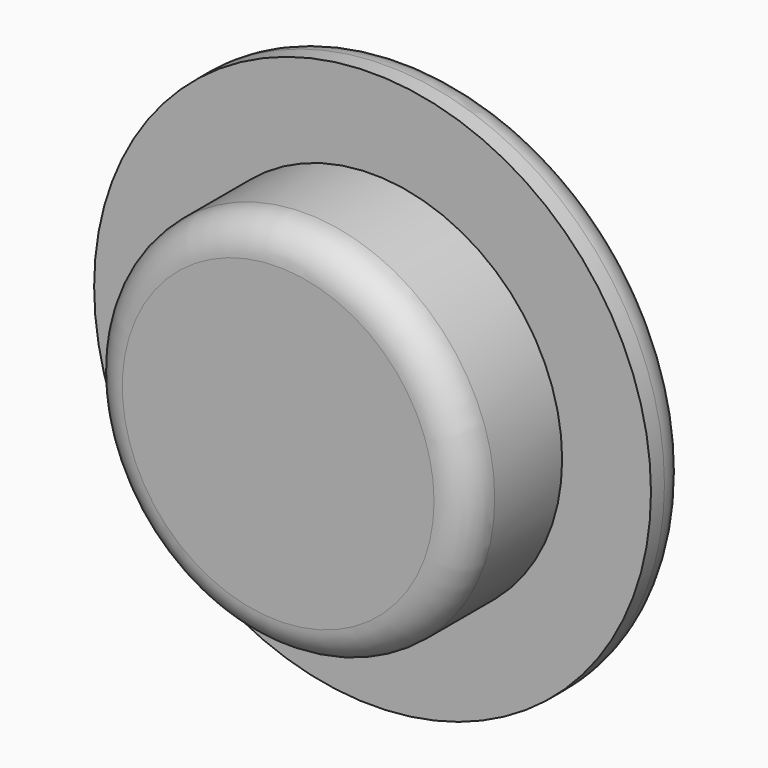
from build123d import *

# Parameters (mm, degrees)
F0_R     = 16.522283
F0_R_2   = 11.25
F1_DEPTH = 3
F2_DEPTH = 10
F3_R     = 2
F4_R     = 2


with BuildPart() as f1:
    # F0 (on Front) → F1 (new body)
    with BuildSketch(Plane.XZ):
        Circle(F0_R)
        Circle(F0_R_2, mode=Mode.SUBTRACT)
    extrude(amount=F1_DEPTH)

    # F0 (on Front) → F2 (join)
    with BuildSketch(Plane.XZ):
        Circle(F0_R_2)
    extrude(amount=F2_DEPTH)

    # F3
    f3_edges = [f1.edges().sort_by_distance(p)[0] for p in [
        (-16.522283, 0, 0),
    ]]
    fillet(f3_edges, radius=F3_R)

    # F4
    f4_edges = [f1.edges().sort_by_distance(p)[0] for p in [
        (-11.25, -10, 0),
    ]]
    fillet(f4_edges, radius=F4_R)


solid = f1.part
